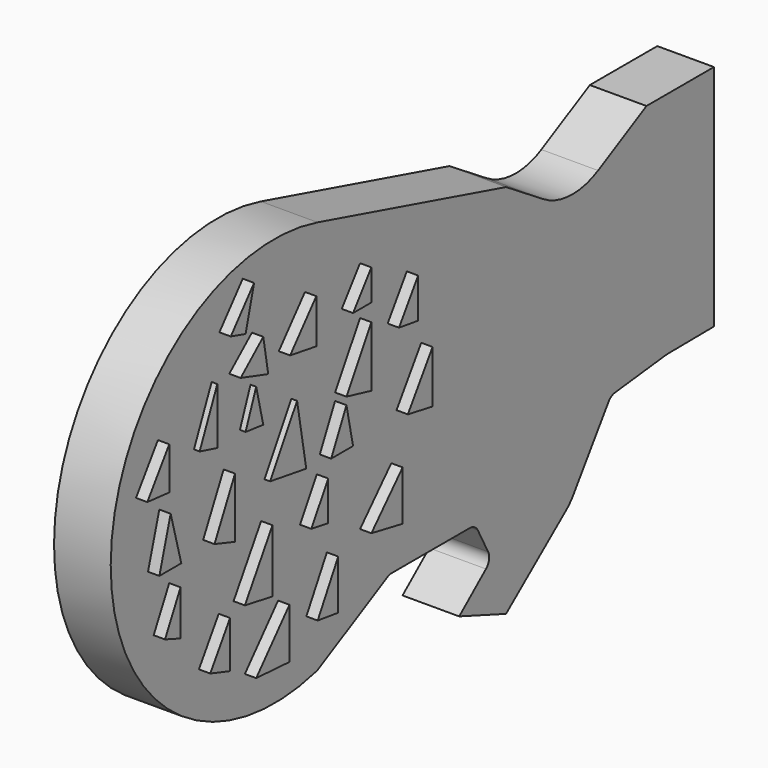
from build123d import *

# Parameters (mm, degrees)
F1_DEPTH  = 127
F2_R      = 152.4
F3_R      = 101.6
F4_R      = 25.4
F5_R      = 25.4
F6_R      = 25.4
F7_R      = 25.4
F8_R      = 25.4
F10_DEPTH = 12.7
F12_DEPTH = 12.7
F14_DEPTH = 12.7
F16_DEPTH = 25.4
F18_DEPTH = 25.4
F20_DEPTH = 25.4
F22_DEPTH = 25.4


with BuildPart() as f1:
    # F0 (on Right) → F1 (new body)
    with BuildSketch(Plane.YZ):
        with BuildLine():
            Line((859.147251, -161.810681), (991.205215, -160.518155))
            Line((991.205215, -160.518155), (991.205215, 351.185709))
            Line((991.205215, 351.185709), (802.172363, 351.185709))
            Line((802.172363, 351.185709), (588.256001, 237.326965))
            Line((588.256001, 237.326965), (408.842146, 351.185709))
            Line((408.842146, 351.185709), (-119.048476, 496.096849))
            ThreePointArc((-119.048476, 496.096849), (-698.252899, 54.46288), (-119.048476, -387.17109))
            Line((-119.048476, -387.17109), (82.162218, -280.075041))
            Line((82.162218, -280.075041), (322.585523, -280.075041))
            Line((322.585523, -280.075041), (368.320072, -366.00053))
            Line((368.320072, -366.00053), (277.732104, -442.375332))
            Line((277.732104, -442.375332), (408.842146, -490.679055))
            Line((408.842146, -490.679055), (588.256001, -345.767885))
            Line((588.256001, -345.767885), (702.599406, -179.515481))
            Line((702.599406, -179.515481), (859.147251, -161.810681))
        make_face()
    extrude(amount=F1_DEPTH)

    # F2
    f2_edges = [f1.edges().sort_by_distance(p)[0] for p in [
        (63.5, 588.256001, 237.326965),
    ]]
    fillet(f2_edges, radius=F2_R)

    # F3
    f3_edges = [f1.edges().sort_by_distance(p)[0] for p in [
        (63.5, 588.256001, -345.767885),
    ]]
    fillet(f3_edges, radius=F3_R)

    # F4
    f4_edges = [f1.edges().sort_by_distance(p)[0] for p in [
        (63.5, 368.320072, -366.00053),
    ]]
    fillet(f4_edges, radius=F4_R)

    # F5
    f5_edges = [f1.edges().sort_by_distance(p)[0] for p in [
        (63.5, 322.585523, -280.075041),
    ]]
    fillet(f5_edges, radius=F5_R)

    # F6
    f6_edges = [f1.edges().sort_by_distance(p)[0] for p in [
        (63.5, 702.599406, -179.515481),
    ]]
    fillet(f6_edges, radius=F6_R)

    # F7
    f7_edges = [f1.edges().sort_by_distance(p)[0] for p in [
        (63.5, 82.162218, -280.075041),
    ]]
    fillet(f7_edges, radius=F7_R)

    # F8
    f8_edges = [f1.edges().sort_by_distance(p)[0] for p in [
        (63.5, -119.048476, -387.17109),
    ]]
    fillet(f8_edges, radius=F8_R)

    # F9 (on face) → F10 (join, symmetric)
    with BuildSketch(Plane.YZ.offset(127)):
        Polygon((-415.599138, 301.891834), (-465.093285, 189.040735), (-415.599138, 175.709584), align=None)
    extrude(amount=F10_DEPTH, both=True)

    # F13 (on face) → F14 (join, symmetric)
    with BuildSketch(Plane.YZ.offset(127)):
        Polygon((-192.2189, 177.992597), (-267.723858, 49.822465), (-166.519001, 33.752684), align=None)
    extrude(amount=F14_DEPTH, both=True)

    # F15 (on face) → F16 (join, symmetric)
    with BuildSketch(Plane.YZ.offset(127)):
        Polygon((-277.015507, -28.733557), (-354.226381, -155.438602), (-277.015507, -169.29698), align=None)
    extrude(amount=F16_DEPTH, both=True)

    # F17 (on face) → F18 (join)
    with BuildSketch(Plane.YZ.offset(127)):
        Polygon((-381.943107, 115.789391), (-439.356327, 0), (-381.943107, -18.834727), align=None)
    extrude(amount=F18_DEPTH)

    # F19 (on face) → F20 (join)
    with BuildSketch(Plane.YZ.offset(127)):
        Polygon((0, 259.116122), (-69.813408, 140.607432), (0, 123.82751), align=None)
        Polygon((171.39788, 140.607432), (102.180727, 35.732955), (171.39788, 23.148015), align=None)
        Polygon((87.498307, -62.849045), (0, -157.236069), (87.498307, -174.015984), align=None)
    extrude(amount=F20_DEPTH)

    # F21 (on face) → F22 (join)
    with BuildSketch(Plane.YZ.offset(127)):
        Polygon((-562.101841, 109.850086), (-593.778133, 0), (-532.405376, 0), align=None)
        Polygon((-534.385145, -46.551459), (-577.939987, -131.681412), (-534.385145, -147.519529), align=None)
        Polygon((-395.801485, -163.357675), (-451.234937, -250.46742), (-395.801485, -268.285304), align=None)
        Polygon((-229.501098, -204.932764), (-322.550118, -311.840147), (-229.501098, -317.779452), align=None)
        Polygon((-92.897221, -165.337443), (-150.310442, -268.285304), (-92.897221, -276.204377), align=None)
        Polygon((-120.878155, 0), (-168.128341, -80.207482), (-120.878155, -88.126548), align=None)
        Polygon((-69.813408, 123.82751), (-112.694882, 35.732955), (-51.322125, 35.732955), align=None)
        Polygon((-154.269978, 373.159021), (-227.52133, 286.049277), (-154.269978, 274.170697), align=None)
        Polygon((-302.752465, 353.361368), (-366.10499, 297.927916), (-288.894087, 274.170697), align=None)
        Polygon((-328.489423, 470.167577), (-393.821716, 390.976906), (-352.246642, 379.098326), align=None)
        Polygon((0, 367.219716), (-51.322125, 297.927916), (0, 297.927916), align=None)
        Polygon((130.935183, 297.927916), (77.362694, 216.757476), (130.935183, 208.838403), align=None)
        Polygon((-566.061378, 248.433739), (-627.434134, 159.344256), (-566.061378, 153.404951), align=None)
    extrude(amount=F22_DEPTH)


with BuildPart() as f12:
    # F11 (on face) → F12 (new body, symmetric)
    with BuildSketch(Plane.YZ.offset(127)):
        Polygon((-306.712002, 252.393275), (-336.408466, 175.182387), (-286.914319, 169.243068), align=None)
    extrude(amount=F12_DEPTH, both=True)


solid = Compound([f1.part, f12.part])
